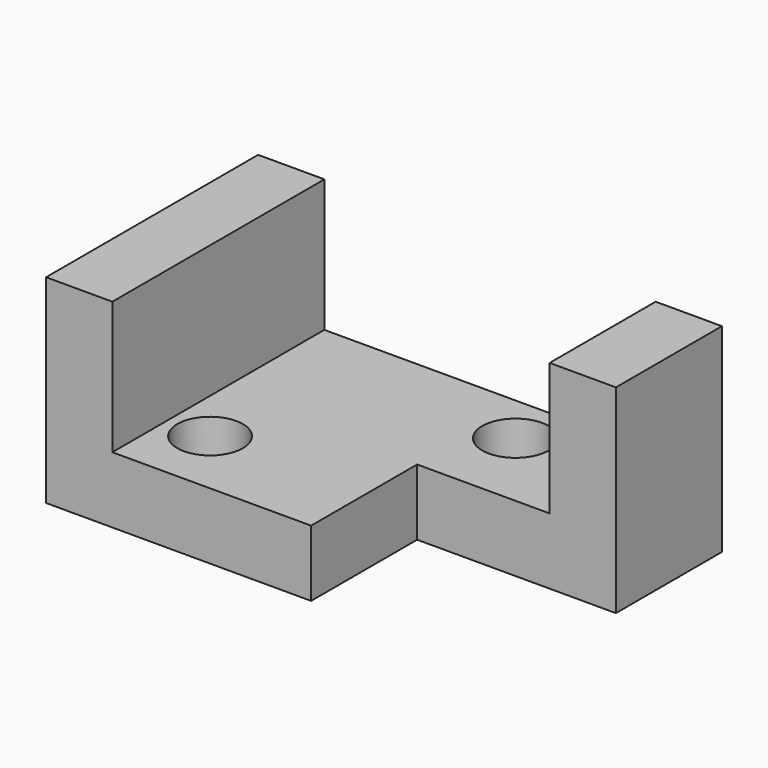
from build123d import *

# Parameters (mm, degrees)
F0_W      = 88.9
F0_H      = 38.1
F1_DEPTH  = 50.8
F2_W      = 63.5
F2_H      = 25.4
F3_DEPTH  = 50.8
F4_W      = 38.1
F4_H      = 25.4
F5_DEPTH  = 38.1
F6_W      = 12.7
F6_H      = 25.4
F7_DEPTH  = 38.1
F8_R      = 6.373614
F9_DEPTH  = 25.4
F10_R     = 6.283749
F11_DEPTH = 25.4


with BuildPart() as f1:
    # F0 (on Front) → F1 (new body)
    with BuildSketch(Plane.XZ):
        with Locations((1.654342, -16.239445)):
            Rectangle(F0_W, F0_H)
    extrude(amount=F1_DEPTH)

    # F2 (on face) → F3 (cut)
    with BuildSketch(Plane.XZ.offset(50.8)):
        with Locations((1.654342, -9.889445)):
            Rectangle(F2_W, F2_H)
    extrude(amount=-F3_DEPTH, mode=Mode.SUBTRACT)

    # F4 (on face) → F5 (cut)
    with BuildSketch(Plane.XY.offset(-22.589445)):
        with Locations((27.054342, -38.1)):
            Rectangle(F4_W, F4_H)
    extrude(amount=-F5_DEPTH, mode=Mode.SUBTRACT)

    # F6 (on face) → F7 (cut)
    with BuildSketch(Plane.XY.offset(2.810555)):
        with Locations((39.754342, -38.1)):
            Rectangle(F6_W, F6_H)
    extrude(amount=-F7_DEPTH, mode=Mode.SUBTRACT)

    # F8 (on face) → F9 (cut)
    with BuildSketch(Plane.XY.offset(-22.589445)):
        with Locations((14.187237, -9.558421)):
            Circle(F8_R)
    extrude(amount=-F9_DEPTH, mode=Mode.SUBTRACT)

    # F10 (on face) → F11 (cut)
    with BuildSketch(Plane.XY.offset(-22.589445)):
        with Locations((-21.933412, -37.581116)):
            Circle(F10_R)
    extrude(amount=-F11_DEPTH, mode=Mode.SUBTRACT)


solid = f1.part
